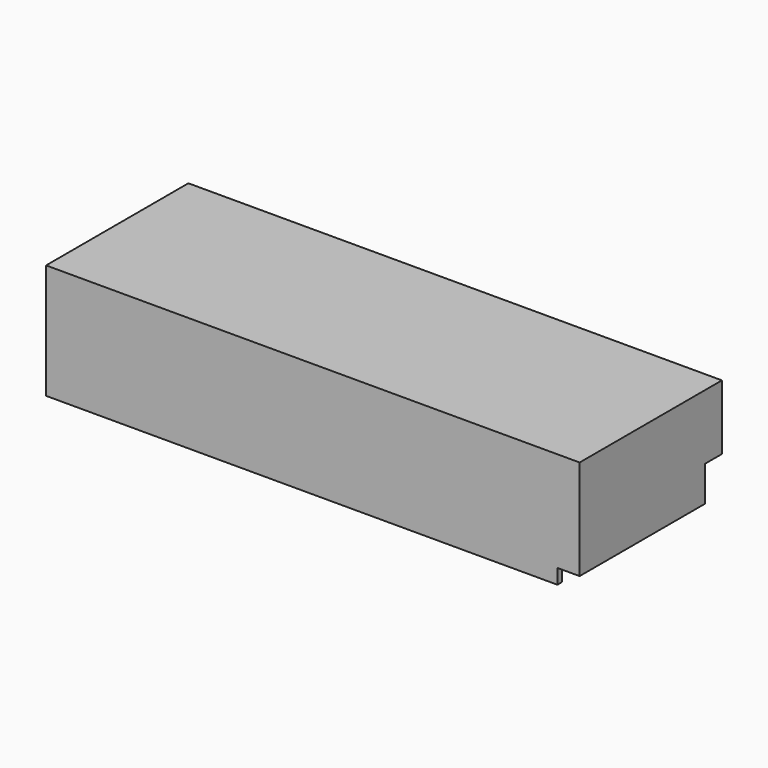
from build123d import *

# Parameters (mm, degrees)
F0_W     = 19.05
F0_H     = 374.65
F0_H_2   = 323.85
F1_DEPTH = 609.6
F0_W_2   = 571.5
F0_W_3   = 590.55
F2_DEPTH = 19.05
F3_W     = 73.025
F3_H     = 171.45
F4_DEPTH = 1828.8


with BuildPart() as f1:
    # F0 (on Front) → F1 (new body)
    with BuildSketch(Plane.XZ):
        with Locations((-1743.075, 187.325)):
            Rectangle(F0_W, F0_H)
        Polygon((-552.45, 374.65), (-533.4, 374.65), (57.15, 374.65), (76.2, 374.65), (76.2, 393.7), (-1752.6, 393.7), (-1752.6, 374.65), (-1733.55, 374.65), (-1162.05, 374.65), (-1143, 374.65), align=None)
        with Locations((-1152.525, 187.325)):
            Rectangle(F0_W, F0_H)
        with Locations((-542.925, 187.325)):
            Rectangle(F0_W, F0_H)
        with Locations((66.675, 212.725)):
            Rectangle(F0_W, F0_H_2)
    extrude(amount=-F1_DEPTH)

    # F0 (on Front) → F2 (join)
    with BuildSketch(Plane.XZ):
        with Locations((-1743.075, 187.325)):
            Rectangle(F0_W, F0_H)
        with Locations((-1447.8, 187.325)):
            Rectangle(F0_W_2, F0_H)
        Polygon((-552.45, 374.65), (-533.4, 374.65), (57.15, 374.65), (76.2, 374.65), (76.2, 393.7), (-1752.6, 393.7), (-1752.6, 374.65), (-1733.55, 374.65), (-1162.05, 374.65), (-1143, 374.65), align=None)
        with Locations((-847.725, 187.325)):
            Rectangle(F0_W_3, F0_H)
        with Locations((-542.925, 187.325)):
            Rectangle(F0_W, F0_H)
        Polygon((-533.4, 0), (0, 0), (0, 50.8), (57.15, 50.8), (57.15, 374.65), (-533.4, 374.65), align=None)
        with Locations((66.675, 212.725)):
            Rectangle(F0_W, F0_H_2)
    extrude(amount=-F2_DEPTH)

    # F3 (on face) → F4 (cut, through all)
    with BuildSketch(Plane(origin=(-1752.6, 0, 0), x_dir=(0, -1, 0), z_dir=(-1, 0, 0))):
        with Locations((-573.0875, 85.725)):
            Rectangle(F3_W, F3_H)
    extrude(amount=-F4_DEPTH, mode=Mode.SUBTRACT)


solid = f1.part
